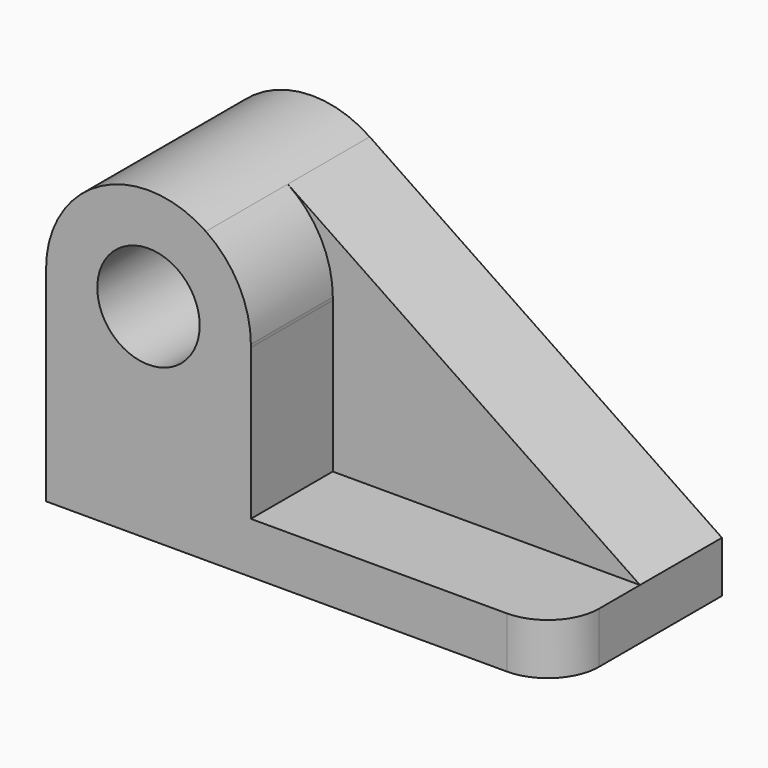
from build123d import *

# Parameters (mm, degrees)
F0_R     = 12.7
F1_DEPTH = 25.4
F2_R     = 12.7
F3_DEPTH = 25.4
F4_DEPTH = 25.4
F5_DEPTH = 25.4
F6_R     = 12.7


with BuildPart() as f1:
    # F0 (on Front) → F1 (new body)
    with BuildSketch(Plane.XZ):
        with BuildLine():
            Line((61.959432, -7.667416), (-25.402695, 51.466912))
            ThreePointArc((-25.402695, 51.466912), (-51.546828, 52.869183), (-65.040568, 30.432584))
            Line((-65.040568, 30.432584), (-65.040568, -20.367416))
            Line((-65.040568, -20.367416), (61.959432, -20.367416))
            Line((61.959432, -20.367416), (61.959432, -7.667416))
        make_face()
        with Locations((-39.640568, 30.432584)):
            Circle(F0_R, mode=Mode.SUBTRACT)
    extrude(amount=F1_DEPTH)

    # F2 (on face) → F3 (join)
    with BuildSketch(Plane.XZ.offset(25.4)):
        with BuildLine():
            ThreePointArc((-14.240568, 30.432584), (-17.203969, 42.338843), (-25.402695, 51.466912))
            ThreePointArc((-25.402695, 51.466912), (-51.546828, 52.869183), (-65.040568, 30.432584))
            ThreePointArc((-65.040568, 30.432584), (-40.000603, 5.035136), (-14.250775, 29.712586))
            ThreePointArc((-14.250775, 29.712586), (-14.24312, 30.072549), (-14.240568, 30.432584))
        make_face()
        with Locations((-39.640568, 30.432584)):
            Circle(F2_R, mode=Mode.SUBTRACT)
    extrude(amount=F3_DEPTH)

    # F2 (on face) → F4 (join)
    with BuildSketch(Plane.XZ.offset(25.4)):
        with BuildLine():
            ThreePointArc((-14.240568, 30.432584), (-17.203969, 42.338843), (-25.402695, 51.466912))
            ThreePointArc((-25.402695, 51.466912), (-51.546828, 52.869183), (-65.040568, 30.432584))
            ThreePointArc((-65.040568, 30.432584), (-40.000603, 5.035136), (-14.250775, 29.712586))
            ThreePointArc((-14.250775, 29.712586), (-14.24312, 30.072549), (-14.240568, 30.432584))
        make_face()
        with Locations((-39.640568, 30.432584)):
            Circle(F2_R, mode=Mode.SUBTRACT)
    extrude(amount=F4_DEPTH)

    # F2 (on face) → F5 (join)
    with BuildSketch(Plane.XZ.offset(25.4)):
        with BuildLine():
            Line((61.959432, -20.367416), (61.959432, -7.667416))
            Line((61.959432, -7.667416), (-14.250775, -7.667416))
            Line((-14.250775, -7.667416), (-14.250775, 29.712586))
            ThreePointArc((-14.250775, 29.712586), (-40.000603, 5.035136), (-65.040568, 30.432584))
            Line((-65.040568, 30.432584), (-65.040568, -7.667416))
            Line((-65.040568, -7.667416), (-65.040568, -20.367416))
            Line((-65.040568, -20.367416), (61.959432, -20.367416))
        make_face()
        with BuildLine():
            ThreePointArc((-14.240568, 30.432584), (-17.203969, 42.338843), (-25.402695, 51.466912))
            ThreePointArc((-25.402695, 51.466912), (-51.546828, 52.869183), (-65.040568, 30.432584))
            ThreePointArc((-65.040568, 30.432584), (-40.000603, 5.035136), (-14.250775, 29.712586))
            ThreePointArc((-14.250775, 29.712586), (-14.24312, 30.072549), (-14.240568, 30.432584))
        make_face()
        with Locations((-39.640568, 30.432584)):
            Circle(F2_R, mode=Mode.SUBTRACT)
    extrude(amount=F5_DEPTH)

    # F6
    f6_edges = [f1.edges().sort_by_distance(p)[0] for p in [
        (61.959432, -50.8, -14.017416),
    ]]
    fillet(f6_edges, radius=F6_R)


solid = f1.part
